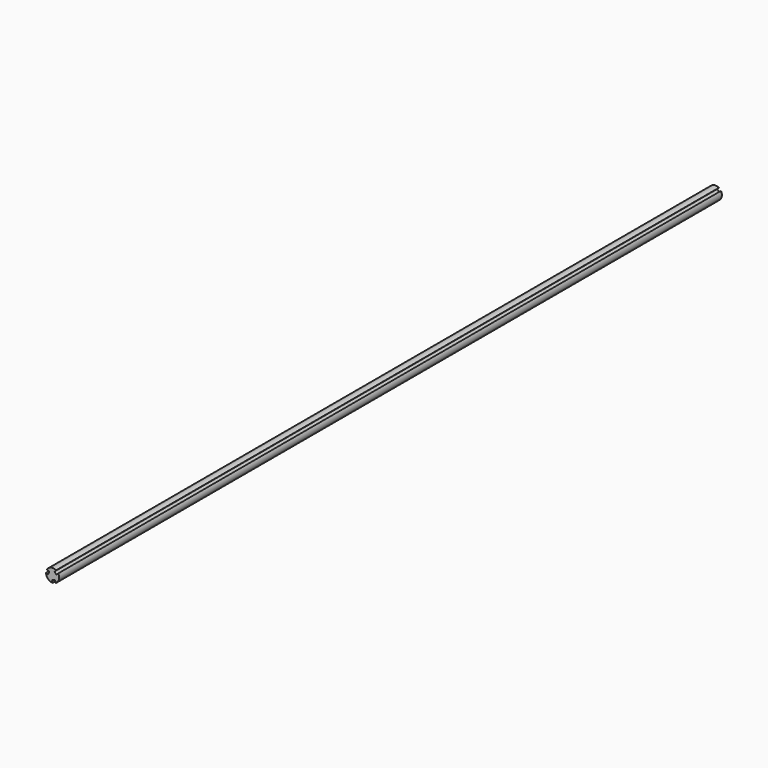
from build123d import *

# Parameters (mm, degrees)
F1_DEPTH = 1400


with BuildPart() as f1:
    # F0 (on Front) → F1 (new body)
    with BuildSketch(Plane.XZ):
        with BuildLine():
            Line((2.978435, 6.513969), (5.806862, 9.342396))
            ThreePointArc((5.806862, 9.342396), (-2.847009, 10.625184), (-9.700088, 5.187321))
            Line((-9.700088, 5.187321), (-5.836384, 4.152045))
            Line((-5.836384, 4.152045), (-7.13048, -0.677584))
            Line((-7.13048, -0.677584), (-10.994183, 0.357692))
            ThreePointArc((-10.994183, 0.357692), (-7.778175, -7.778175), (0.357692, -10.994183))
            Line((0.357692, -10.994183), (-0.677584, -7.13048))
            Line((-0.677584, -7.13048), (4.152045, -5.836384))
            Line((4.152045, -5.836384), (5.187321, -9.700088))
            ThreePointArc((5.187321, -9.700088), (10.625184, -2.847009), (9.342396, 5.806862))
            Line((9.342396, 5.806862), (6.513969, 2.978435))
            Line((6.513969, 2.978435), (2.978435, 6.513969))
        make_face()
    extrude(amount=F1_DEPTH)


solid = f1.part
